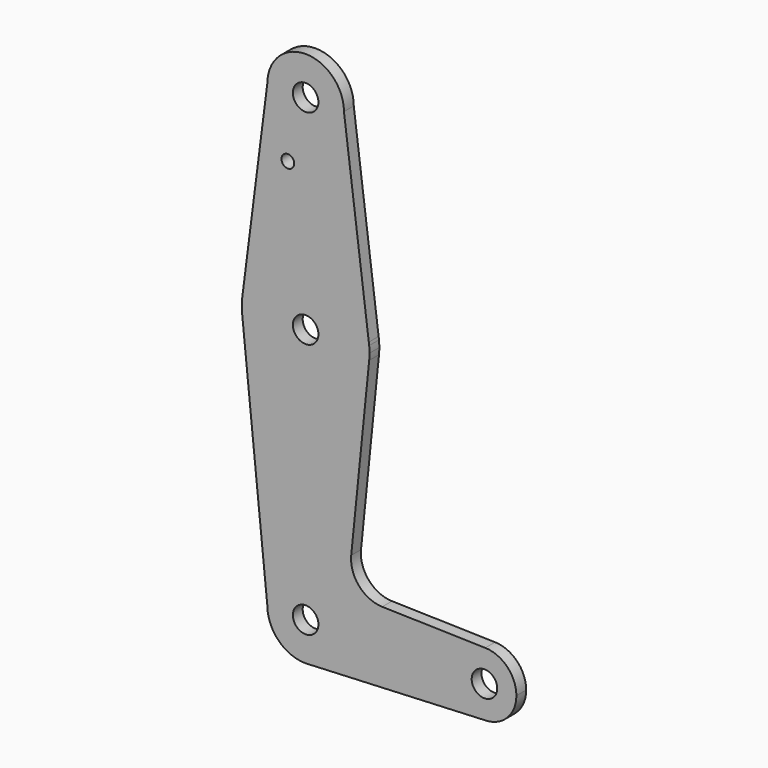
from build123d import *

# Parameters (mm, degrees)
F0_R     = 3.175
F0_R_2   = 1.5875
F1_DEPTH = 3.048


with BuildPart() as f1:
    # F0 (on Front) → F1 (new body)
    with BuildSketch(Plane.XZ):
        with BuildLine():
            ThreePointArc((15.794203, -1.59962), (15.854788, -0.800829), (15.875, 0))
            ThreePointArc((15.875, 0), (15.853706, 0.821975), (15.78988, 1.641744))
            Line((15.78988, 1.641744), (15.696937, 2.371033))
            ThreePointArc((15.696937, 2.371033), (-0.183122, 15.873944), (-15.747457, 2.008289))
            ThreePointArc((-15.747457, 2.008289), (-15.873668, 0.205667), (-15.794203, -1.59962))
            ThreePointArc((-15.794203, -1.59962), (0, -15.875), (15.794203, -1.59962))
        make_face()
        Circle(F0_R, mode=Mode.SUBTRACT)
        with BuildLine():
            Line((15.696937, 2.371033), (15.78988, 1.641744))
            ThreePointArc((15.78988, 1.641744), (15.747631, 2.006927), (15.696937, 2.371033))
        make_face()
        with BuildLine():
            Line((11.326168, -45.715768), (15.794203, -1.59962))
            ThreePointArc((15.794203, -1.59962), (0, -15.875), (-15.794203, -1.59962))
            Line((-15.794203, -1.59962), (-9.525, -63.5))
            ThreePointArc((-9.525, -63.5), (0, -53.975), (9.525, -63.5))
            ThreePointArc((9.525, -63.5), (7.035367, -69.921), (0.867942, -72.985373))
            Line((0.867942, -72.985373), (44.447804, -70.99568))
            ThreePointArc((44.447804, -70.99568), (36.51096, -62.956142), (44.651864, -55.123303))
            Line((44.651864, -55.123303), (19.031518, -54.46443))
            ThreePointArc((19.031518, -54.46443), (13.26979, -51.77149), (11.326168, -45.715768))
        make_face()
        with BuildLine():
            ThreePointArc((-15.747457, 2.008289), (-0.183122, 15.873944), (15.696937, 2.371033))
            Line((15.696937, 2.371033), (9.525, 50.8))
            ThreePointArc((9.525, 50.8), (0, 41.275), (-9.525, 50.8))
            Line((-9.525, 50.8), (-15.747457, 2.008289))
        make_face()
        with Locations((-4.424517, 35.396129)):
            Circle(F0_R_2, mode=Mode.SUBTRACT)
        with BuildLine():
            ThreePointArc((-9.525, 50.8), (0, 41.275), (9.525, 50.8))
            ThreePointArc((9.525, 50.8), (0, 60.325), (-9.525, 50.8))
        make_face()
        with Locations((0, 50.8)):
            Circle(F0_R, mode=Mode.SUBTRACT)
        with BuildLine():
            ThreePointArc((9.525, -63.5), (0, -53.975), (-9.525, -63.5))
            ThreePointArc((-9.525, -63.5), (-6.735192, -70.235192), (0, -73.025))
            Line((0, -73.025), (0.867942, -72.985373))
            ThreePointArc((0.867942, -72.985373), (7.035367, -69.921), (9.525, -63.5))
        make_face()
        with Locations((0, -63.5)):
            Circle(F0_R, mode=Mode.SUBTRACT)
        with BuildLine():
            Line((0.867942, -72.985373), (0, -73.025))
            ThreePointArc((0, -73.025), (0.434423, -73.015088), (0.867942, -72.985373))
        make_face()
        with BuildLine():
            ThreePointArc((52.385304, -63.05818), (50.132152, -57.518135), (44.651864, -55.123303))
            ThreePointArc((44.651864, -55.123303), (36.51096, -62.956142), (44.447804, -70.99568))
            ThreePointArc((44.447804, -70.99568), (50.060464, -68.67084), (52.385304, -63.05818))
        make_face()
        with Locations((44.447804, -63.05818)):
            Circle(F0_R, mode=Mode.SUBTRACT)
    extrude(amount=F1_DEPTH)


solid = f1.part
